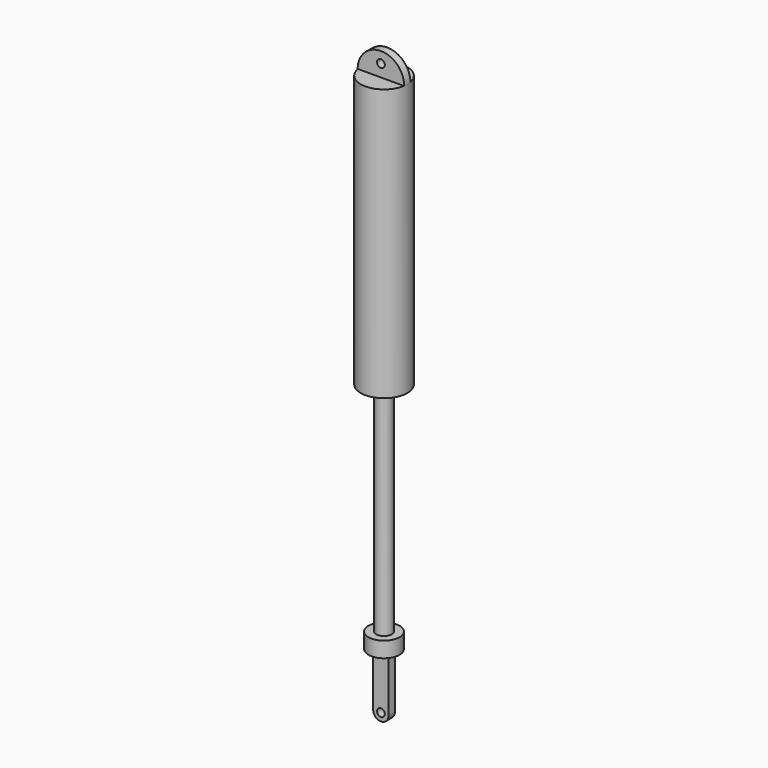
from build123d import *

# Parameters (mm, degrees)
F0_R     = 6.35
F1_DEPTH = 6.35
F0_W     = 12.7
F0_H     = 355.6


with BuildPart() as f1:
    # F0 (on Front) → F1 (new body, symmetric)
    with BuildSketch(Plane.XZ):
        with BuildLine():
            Line((-38.1, 444.5), (0, 444.5))
            Line((0, 444.5), (38.1, 444.5))
            ThreePointArc((38.1, 444.5), (0, 482.6), (-38.1, 444.5))
        make_face()
        with Locations((0, 464.602202)):
            Circle(F0_R, mode=Mode.SUBTRACT)
        with BuildLine():
            Line((12.7, -381), (0, -381))
            Line((0, -381), (-12.7, -381))
            Line((-12.7, -381), (-12.7, -469.810855))
            ThreePointArc((-12.7, -469.810855), (-12.700078, -469.855428), (-12.7, -469.9))
            ThreePointArc((-12.7, -469.9), (0, -482.555506), (12.7, -469.9))
            Line((12.7, -469.9), (12.7, -469.810855))
            Line((12.7, -469.810855), (12.7, -381))
        make_face()
        with Locations((0, -469.855428)):
            Circle(F0_R, mode=Mode.SUBTRACT)
    extrude(amount=F1_DEPTH, both=True)


with BuildPart() as f2:
    # F0 (on Front) → F2 (revolve)
    with BuildSketch(Plane.XZ):
        Polygon((0, 444.5), (0, 0), (12.7, 0), (38.1, 0), (38.1, 444.5), align=None)
        with Locations((6.35, -177.8)):
            Rectangle(F0_W, F0_H)
        Polygon((12.7, -355.6), (0, -355.6), (0, -381), (12.7, -381), (25.4, -381), (25.4, -355.6), align=None)
    revolve(axis=Axis((0, 0, -368.3), (0, 0, -1)))


solid = Compound([f1.part, f2.part])
